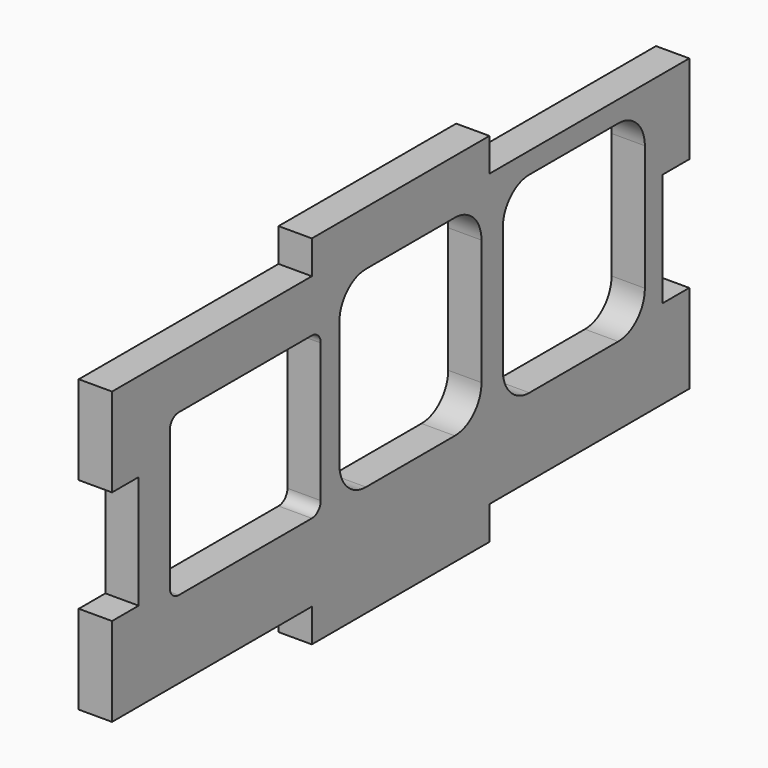
from build123d import *

# Parameters (mm, degrees)
SKETCH008_W   = 17
SKETCH008_H   = 14.5
SKETCH008_W_2 = 16
SKETCH008_H_2 = 17.3
PAD002_DEPTH  = 3
FILLET_R      = 3
FILLET004_R   = 1


with BuildPart() as part:
    # Sketch008 → Pad002 (new body)
    with BuildSketch(Plane.YZ.offset(93)):
        Polygon((-42.5, 3), (-42.5, 0), (-22.5, 0), (-22.5, 3), (0, 3), (0, 11), (-3, 11), (-3, 21.2), (0, 21.2), (0, 29.2), (-22.5, 29.2), (-22.5, 32.2), (-42.5, 32.2), (-42.5, 29.2), (-65, 29.2), (-65, 21.2), (-62, 21.2), (-62, 11), (-65, 11), (-65, 3), align=None)
        with Locations((-50, 17.25)):
            Rectangle(SKETCH008_W, SKETCH008_H, mode=Mode.SUBTRACT)
        with Locations((-13, 18.65)):
            Rectangle(SKETCH008_W_2, SKETCH008_H_2, mode=Mode.SUBTRACT)
        with Locations((-31.4, 18.65)):
            Rectangle(SKETCH008_W_2, SKETCH008_H_2, mode=Mode.SUBTRACT)
    extrude(amount=-PAD002_DEPTH)

    # Fillet
    fillet_edges = [part.edges().sort_by_distance(p)[0] for p in [
        (91.5, -23.4, 10),
        (91.5, -5, 10),
        (91.5, -5, 27.3),
        (91.5, -23.4, 27.3),
        (91.5, -21, 10),
        (91.5, -39.4, 10),
        (91.5, -21, 27.3),
        (91.5, -39.4, 27.3),
    ]]
    fillet(fillet_edges, radius=FILLET_R)

    # Fillet004
    fillet004_edges = [part.edges().sort_by_distance(p)[0] for p in [
        (91.5, -58.5, 10),
        (91.5, -58.5, 24.5),
        (91.5, -41.5, 24.5),
        (91.5, -41.5, 10),
    ]]
    fillet(fillet004_edges, radius=FILLET004_R)


solid = part.part
